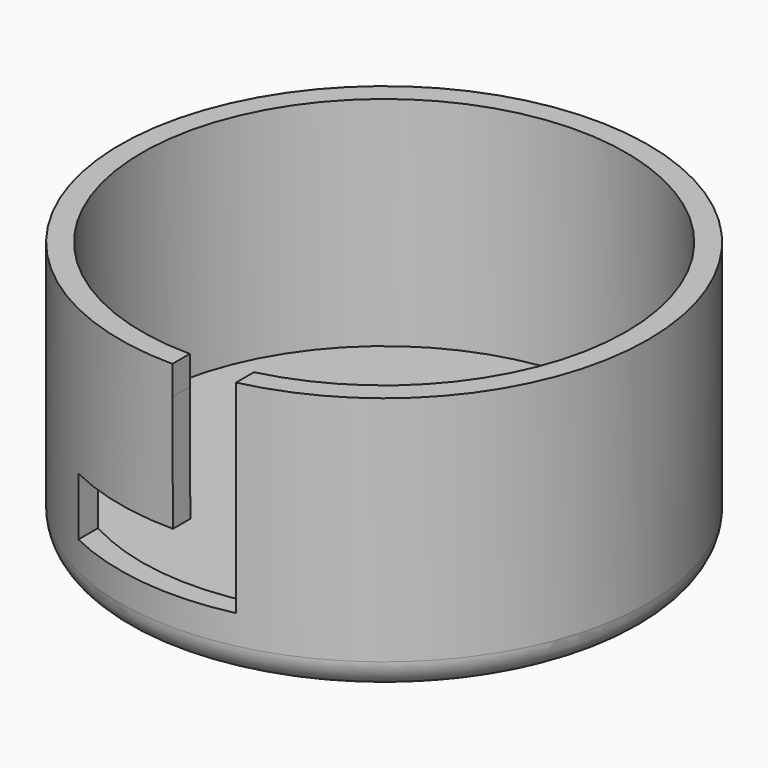
from build123d import *

# Parameters (mm, degrees)
F0_R     = 18.2
F0_R_2   = 16.7
F1_DEPTH = 3
F2_R     = 18.2
F2_R_2   = 16.7
F3_DEPTH = 15
F6_DEPTH = 10
F7_R     = 2


with BuildPart() as f1:
    # F0 (on Top) → F1 (new body)
    with BuildSketch(Plane.XY):
        Circle(F0_R)
        Circle(F0_R_2, mode=Mode.SUBTRACT)
        Circle(F0_R_2)
    extrude(amount=F1_DEPTH)

    # F2 (on face) → F3 (join)
    with BuildSketch(Plane.XY.offset(3)):
        Circle(F2_R)
        Circle(F2_R_2, mode=Mode.SUBTRACT)
    extrude(amount=F3_DEPTH)

    # F5 (on offset) → F6 (cut)
    with BuildSketch(Plane.XZ.offset(18.2)):
        Polygon((-0.037793, 15.999911), (0, 8), (-8, 8), (-8, 4), (4, 4), (4, 20), (3.962207, 19.999911), (-0.037793, 19.999911), align=None)
    extrude(amount=-F6_DEPTH, mode=Mode.SUBTRACT)

    # F7
    f7_edges = [f1.edges().sort_by_distance(p)[0] for p in [
        (-18.2, 0, 0),
    ]]
    fillet(f7_edges, radius=F7_R)


solid = f1.part
